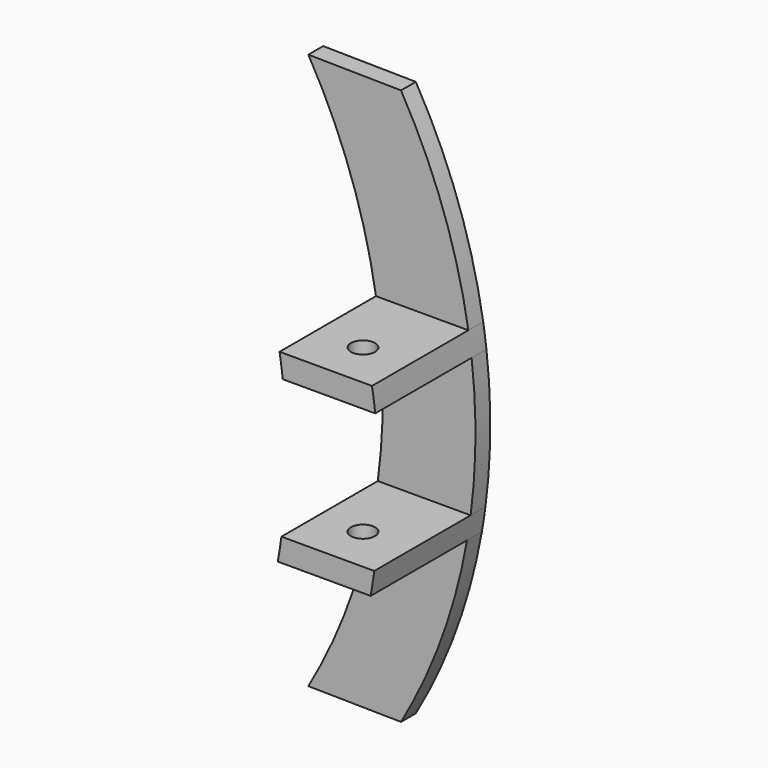
from build123d import *

# Parameters (mm, degrees)
F1_DEPTH = 5.08
F2_DEPTH = 38.1
F4_D     = 6.604


with BuildPart() as f1:
    # F0 (on Front) → F1 (new body)
    with BuildSketch(Plane.XZ):
        with BuildLine():
            Line((-25.397333, -74.747579), (0, -75.115653))
            ThreePointArc((0, -75.115653), (11.223347, -51.049239), (18.098838, -25.4))
            Line((18.098838, -25.4), (-7.363914, -25.4))
            ThreePointArc((-7.363914, -25.4), (-14.238036, -50.856769), (-25.397333, -74.747579))
        make_face()
        with BuildLine():
            Line((-7.363914, -25.4), (18.098838, -25.4))
            ThreePointArc((18.098838, -25.4), (18.623813, -22.230181), (19.081848, -19.05))
            Line((19.081848, -19.05), (-6.365, -19.05))
            ThreePointArc((-6.365, -19.05), (-6.830974, -22.230267), (-7.363914, -25.4))
        make_face()
        with BuildLine():
            Line((-6.365, -19.05), (19.081848, -19.05))
            ThreePointArc((19.081848, -19.05), (20.41381, -0.008572), (19.355084, 19.05))
            Line((19.355084, 19.05), (-5.999007, 19.05))
            ThreePointArc((-5.999007, 19.05), (-4.986636, -0.011483), (-6.365, -19.05))
        make_face()
        with BuildLine():
            Line((-5.999007, 19.05), (19.355084, 19.05))
            ThreePointArc((19.355084, 19.05), (18.943654, 22.229679), (18.465424, 25.4))
            Line((18.465424, 25.4), (-6.872882, 25.4))
            ThreePointArc((-6.872882, 25.4), (-6.402556, 22.229595), (-5.999007, 19.05))
        make_face()
        with BuildLine():
            Line((-6.872882, 25.4), (18.465424, 25.4))
            ThreePointArc((18.465424, 25.4), (11.595818, 52.183193), (0, 77.284347))
            Line((0, 77.284347), (-25.397333, 77.652421))
            ThreePointArc((-25.397333, 77.652421), (-13.739127, 52.37563), (-6.872882, 25.4))
        make_face()
    extrude(amount=F1_DEPTH)

    # F0 (on Front) → F2 (join)
    with BuildSketch(Plane.XZ):
        with BuildLine():
            Line((-5.999007, 19.05), (19.355084, 19.05))
            ThreePointArc((19.355084, 19.05), (18.943654, 22.229679), (18.465424, 25.4))
            Line((18.465424, 25.4), (-6.872882, 25.4))
            ThreePointArc((-6.872882, 25.4), (-6.402556, 22.229595), (-5.999007, 19.05))
        make_face()
        with BuildLine():
            Line((-7.363914, -25.4), (18.098838, -25.4))
            ThreePointArc((18.098838, -25.4), (18.623813, -22.230181), (19.081848, -19.05))
            Line((19.081848, -19.05), (-6.365, -19.05))
            ThreePointArc((-6.365, -19.05), (-6.830974, -22.230267), (-7.363914, -25.4))
        make_face()
    extrude(amount=F2_DEPTH)

    # F4 (through all)
    with Locations(Plane.XY.offset(25.4)):
        with Locations((5.827118, -25.4)):
            Hole(F4_D / 2)


solid = f1.part
